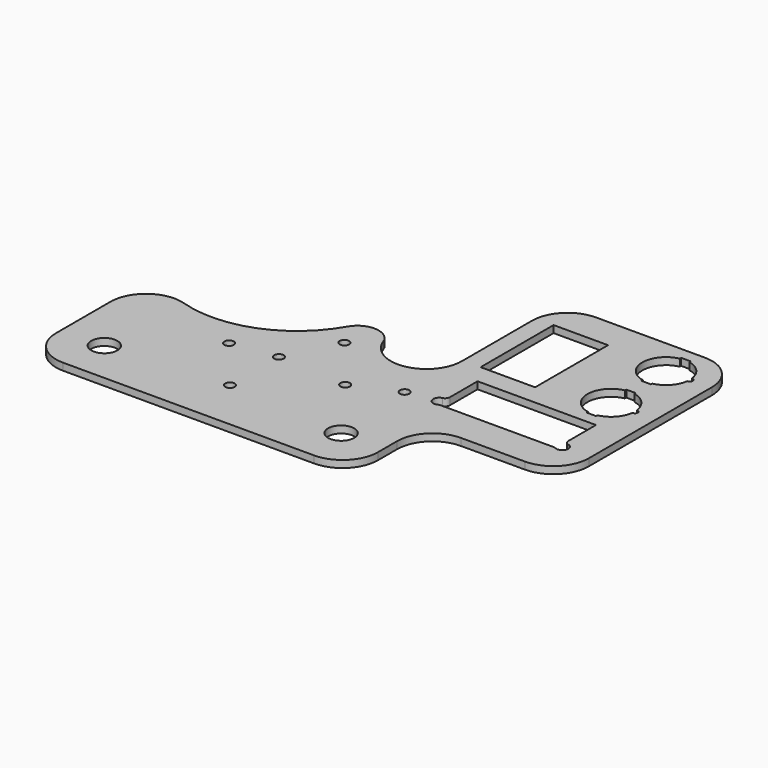
from build123d import *

# Parameters (mm, degrees)
SKETCH_R        = 5.5
SKETCH_R_2      = 10
SKETCH_R_3      = 2
SKETCH_W        = 50
SKETCH_H        = 21
SKETCH_W_2      = 23
SKETCH_H_2      = 38.5
PAD_DEPTH       = 3
FILLET_R        = 5
FILLET001_R     = 15
SKETCH001_R     = 1.25
SKETCH001_R_2   = 2.5
POCKET_DEPTH    = 3.001
FILLET002_R     = 2
FILLET003_R     = 2
SKETCH002_W     = 4
SKETCH002_H     = 21
POCKET001_DEPTH = 3.001


with BuildPart() as part:
    # Sketch → Pad (new body)
    with BuildSketch(Plane.XY):
        with BuildLine():
            Line((0, 15), (0, 25))
            ThreePointArc((15, 40), (4.393398, 35.606602), (0, 25))
            Line((15, 40), (42, 40))
            ThreePointArc((42, 40), (52.606602, 44.393398), (57, 55))
            Line((57, 55), (57, 120))
            ThreePointArc((57, 120), (52.606602, 130.606602), (42, 135))
            Line((42, 135), (-4, 135))
            ThreePointArc((-4, 135), (-14.606602, 130.606602), (-19, 120))
            Line((-19, 120), (-19, 83))
            ThreePointArc((-48.374211, 78.71257), (-31.833571, 68.157272), (-19, 83))
            ThreePointArc((-48.374211, 78.71257), (-56.140556, 83.224713), (-63.9069, 78.71257))
            ThreePointArc((-130, 65), (-93.858369, 56.938332), (-63.9069, 78.71257))
            ThreePointArc((-130, 65), (-134.416408, 59.708204), (-136, 53))
            Line((-136, 53), (-136, 15))
            ThreePointArc((-136, 15), (-131.606602, 4.393398), (-121, 0))
            Line((-121, 0), (-15, 0))
            ThreePointArc((-15, 0), (-4.393398, 4.393398), (0, 15))
        make_face()
        with Locations((-118, 18)):
            Circle(SKETCH_R, mode=Mode.SUBTRACT)
        with Locations((-18, 18)):
            Circle(SKETCH_R, mode=Mode.SUBTRACT)
        with Locations((38, 119.5)):
            Circle(SKETCH_R_2, mode=Mode.SUBTRACT)
        with Locations((38, 90.5)):
            Circle(SKETCH_R_2, mode=Mode.SUBTRACT)
        with Locations((-86.944694, 45.077738)):
            Circle(SKETCH_R_3, mode=Mode.SUBTRACT)
        with Locations((-57.480095, 69.07435)):
            Circle(SKETCH_R_3, mode=Mode.SUBTRACT)
        with Locations((-38.535401, 45.812824)):
            Circle(SKETCH_R_3, mode=Mode.SUBTRACT)
        with Locations((-68, 21.816212)):
            Circle(SKETCH_R_3, mode=Mode.SUBTRACT)
        with Locations((-68, 47.675445)):
            Circle(SKETCH_R_3, mode=Mode.SUBTRACT)
        with Locations((-20, 54)):
            Circle(SKETCH_R_3, mode=Mode.SUBTRACT)
        with Locations((19, 64.5)):
            Rectangle(SKETCH_W, SKETCH_H, mode=Mode.SUBTRACT)
        with Locations((0, 102.75)):
            Rectangle(SKETCH_W_2, SKETCH_H_2, mode=Mode.SUBTRACT)
    extrude(amount=PAD_DEPTH)

    # Fillet
    fillet_edges = [part.edges().sort_by_distance(p)[0] for p in [
        (-48.374211, 78.71257, 1.5),
    ]]
    fillet(fillet_edges, radius=FILLET_R)

    # Fillet001
    fillet001_edges = [part.edges().sort_by_distance(p)[0] for p in [
        (-130, 65, 1.5),
    ]]
    fillet(fillet001_edges, radius=FILLET001_R)

    # Sketch001 (on Face38 of Fillet001) → Pocket (cut, through all)
    with BuildSketch(Plane.XY.offset(3)):
        with Locations((48, 119.5)):
            Circle(SKETCH001_R)
        with Locations((48, 90.5)):
            Circle(SKETCH001_R)
        with Locations((-7, 56)):
            Circle(SKETCH001_R_2)
        with Locations((45, 56)):
            Circle(SKETCH001_R_2)
    extrude(amount=-POCKET_DEPTH, mode=Mode.SUBTRACT)

    # Fillet002
    fillet002_edges = [part.edges().sort_by_distance(p)[0] for p in [
        (44, 58.291288, 1.5),
        (-6, 58.291288, 1.5),
    ]]
    fillet(fillet002_edges, radius=FILLET002_R)

    # Fillet003
    fillet003_edges = [part.edges().sort_by_distance(p)[0] for p in [
        (-5.5, 54, 1.5),
        (43.5, 54, 1.5),
    ]]
    fillet(fillet003_edges, radius=FILLET003_R)

    # Sketch002 (on Face46 of Fillet003) → Pocket001 (cut, through all)
    with BuildSketch(Plane.XY.offset(3)):
        with Locations((38, 119.5)):
            Rectangle(SKETCH002_W, SKETCH002_H)
        with Locations((38, 90.5)):
            Rectangle(SKETCH002_W, SKETCH002_H)
    extrude(amount=-POCKET001_DEPTH, mode=Mode.SUBTRACT)


solid = part.part
